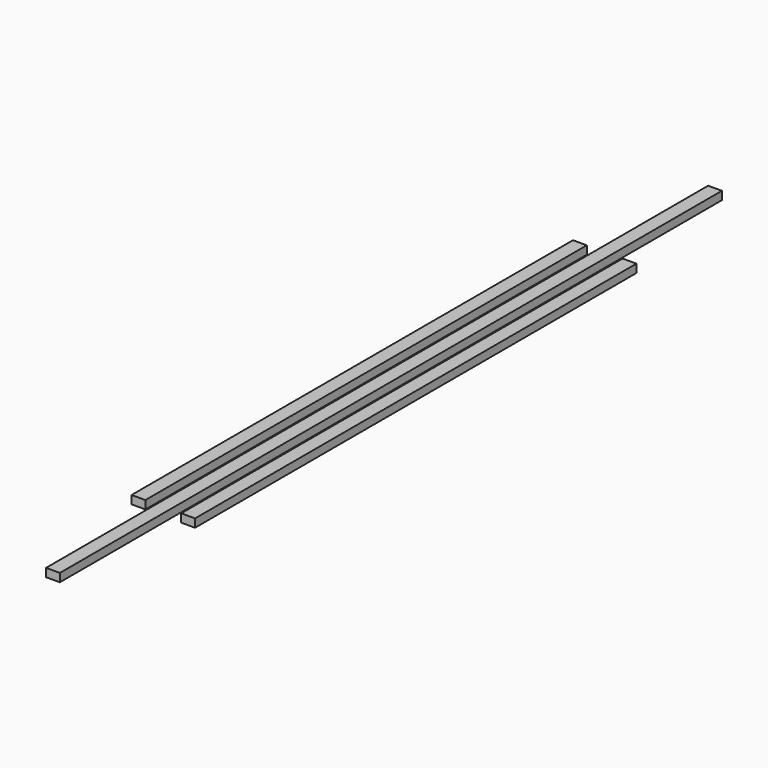
from build123d import *

# Parameters (mm, degrees)
F0_W     = 0.25
F0_H     = 10
F0_H_2   = 15
F1_DEPTH = 0.15


with BuildPart() as f1:
    # F0 (on Top) → F1 (new body)
    with BuildSketch(Plane.XY):
        with Locations((-0.45, 0)):
            Rectangle(F0_W, F0_H)
        Rectangle(F0_W, F0_H_2)
        with Locations((0.45, 0)):
            Rectangle(F0_W, F0_H)
    extrude(amount=F1_DEPTH)


solid = f1.part
